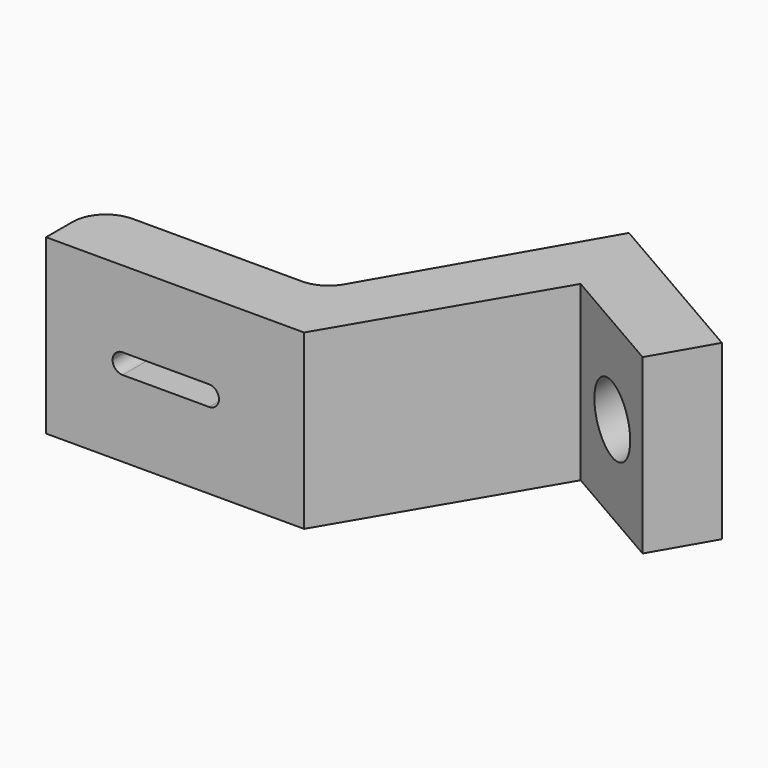
from build123d import *

# Parameters (mm, degrees)
F1_DEPTH = 26
F3_DEPTH = 25
F5_D     = 10


with BuildPart() as f1:
    # F0 (on Top) → F1 (new body)
    with BuildSketch(Plane.XY):
        with BuildLine():
            Line((-38.8, 5), (-38.8, 0))
            Line((-38.8, 0), (0, 0))
            Line((0, 0), (17.632412, 29.941532))
            Line((17.632412, 29.941532), (34.95292, 19.941532))
            Line((34.95292, 19.941532), (39.95292, 28.601786))
            Line((39.95292, 28.601786), (13.972158, 43.601786))
            Line((13.972158, 43.601786), (-3.984466, 12.5))
            ThreePointArc((-3.984466, 12.5), (-5.814593, 10.669873), (-8.314593, 10))
            Line((-8.314593, 10), (-33.8, 10))
            ThreePointArc((-33.8, 10), (-37.335534, 8.535534), (-38.8, 5))
        make_face()
    extrude(amount=F1_DEPTH)

    # F2 (on face) → F3 (cut)
    with BuildSketch(Plane(origin=(0, 10, 0), x_dir=(-1, 0, 0), z_dir=(0, 1, 0))):
        with BuildLine():
            ThreePointArc((27.3, 11.5), (28.36066, 11.93934), (28.8, 13))
            ThreePointArc((28.8, 13), (28.36066, 14.06066), (27.3, 14.5))
            ThreePointArc((27.3, 14.5), (25.8, 13), (27.3, 11.5))
        make_face()
        with BuildLine():
            ThreePointArc((15.8, 13), (15.36066, 14.06066), (14.3, 14.5))
            ThreePointArc((14.3, 14.5), (12.8, 13), (14.3, 11.5))
            ThreePointArc((14.3, 11.5), (15.36066, 11.93934), (15.8, 13))
        make_face()
        with BuildLine():
            ThreePointArc((27.3, 11.5), (25.8, 13), (27.3, 14.5))
            Line((27.3, 14.5), (14.3, 14.5))
            ThreePointArc((14.3, 14.5), (15.36066, 14.06066), (15.8, 13))
            ThreePointArc((15.8, 13), (15.36066, 11.93934), (14.3, 11.5))
            Line((14.3, 11.5), (27.3, 11.5))
        make_face()
    extrude(amount=-F3_DEPTH, mode=Mode.SUBTRACT)

    # F5 (through all)
    with Locations(Plane.XZ):
        with Locations((26.483979, 13)):
            Hole(F5_D / 2)


solid = f1.part
